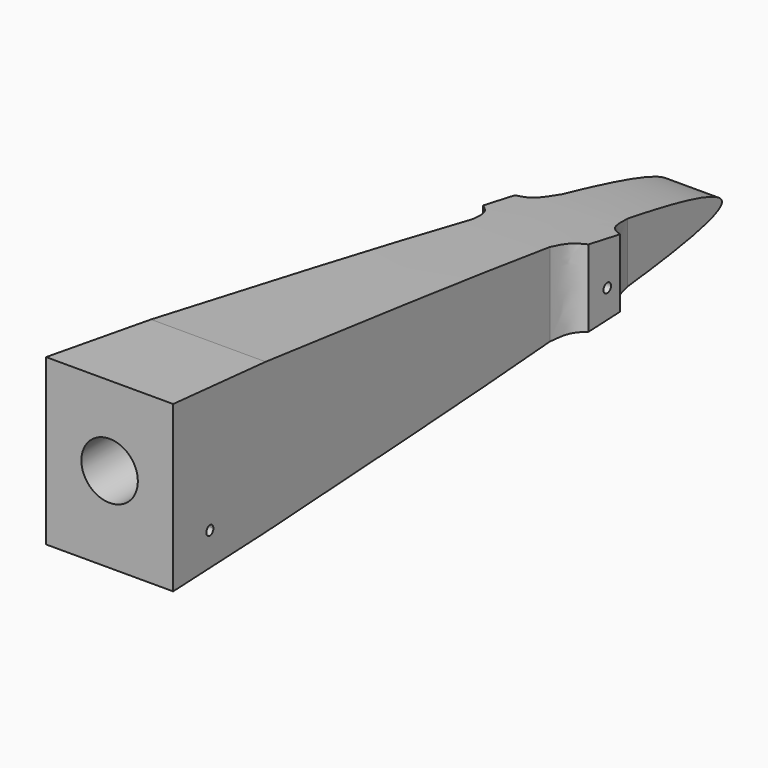
from build123d import *

# Parameters (mm, degrees)
F1_DEPTH = 21.43125
F2_R     = 9.525
F3_DEPTH = 50.8
F4_R     = 1.5875
F6_DEPTH = 42.8635
F7_DEPTH = 61.7368760046


with BuildPart() as f1:
    # F0 (on Right) → F1 (new body, symmetric)
    with BuildSketch(Plane.YZ):
        Polygon((-152.4, 69.85), (-152.4, 0), (152.4, 0), (152.4, 19.05), align=None)
    extrude(amount=F1_DEPTH, both=True)

    # F2 (on face) → F3 (cut)
    with BuildSketch(Plane.XZ.offset(152.4)):
        with Locations((0, 34.925)):
            Circle(F2_R)
    extrude(amount=-F3_DEPTH, mode=Mode.SUBTRACT)

    # F4 (on face) → F6 (intersect, through all)
    with BuildSketch(Plane.YZ.offset(21.43125)):
        with BuildLine():
            add(Edge.make_bspline(
                [(-110.784560442, 56.6772185266), (-7.8078894531, 41.1616744021), (197.1659329213, 10.2781708389), (-8.1241632402, 7.4820430193), (-110.2786958218, 6.0906601138)],
                knots=[0, 0, 0, 0, 0.5023893773, 1, 1, 1, 1], degree=3))
            Line((-110.784560442, 56.6772185266), (-152.4, 61.7358759046))
            Line((-152.4, 61.7358759046), (-152.4, 6.0906601138))
            Line((-152.4, 6.0906601138), (-135.8959368267, 6.0906601138))
            Line((-135.8959368267, 6.0906601138), (-110.2786958218, 6.0906601138))
        make_face()
        with BuildLine():
            ThreePointArc((-134.2849996434, 17.202987096), (-134.7582847356, 16.0721991454), (-135.8959368267, 15.6156601138))
            ThreePointArc((-135.8959368267, 15.6156601138), (-136.9867145512, 18.3337750467), (-134.2849996434, 17.202987096))
        make_face(mode=Mode.SUBTRACT)
        with Locations((35.1882949471, 18.7812717256)):
            Circle(F4_R, mode=Mode.SUBTRACT)
    extrude(amount=-F6_DEPTH, mode=Mode.INTERSECT)

    # F5 (on face) → F7 (intersect, through all)
    with BuildSketch(Plane(origin=(0, 0, 0), x_dir=(1, 0, 0), z_dir=(0, 0, -1))):
        with BuildLine():
            Line((21.43125, 152.4), (-21.43125, 152.4))
            Line((-21.43125, 152.4), (-12.8599264801, -17.1176383792))
            add(Edge.make_bspline(
                [(-17.78, -27.2766537964), (-16.5623446124, -26.2978531998), (-13.865051172, -24.1296597555), (-13.2159822939, -19.6015799215), (-12.8599264801, -17.1176383792)],
                knots=[0, 0, 0, 0, 0.4514360097, 1, 1, 1, 1], degree=3))
            Line((-17.78, -27.2766537964), (-17.78, -40.6726039946))
            add(Edge.make_bspline(
                [(-17.78, -40.6726039946), (-16.3984452114, -41.2366877132), (-13.0146417293, -42.6182821799), (-11.8044986652, -48.6084287427), (-11.0884383555, -52.1528908229)],
                knots=[0, 0, 0, 0, 0.4082845815, 1, 1, 1, 1], degree=3))
            Line((-11.0884383555, -52.1528908229), (-8.9427102357, -94.5896))
            Line((-8.9427102357, -94.5896), (8.9427102357, -94.5896))
            Line((8.9427102357, -94.5896), (11.0884383555, -52.1528908229))
            add(Edge.make_bspline(
                [(17.78, -40.6726039946), (16.3984452114, -41.2366877132), (13.0146417293, -42.6182821799), (11.8044986652, -48.6084287427), (11.0884383555, -52.1528908229)],
                knots=[0, 0, 0, 0, 0.4082845815, 1, 1, 1, 1], degree=3))
            Line((17.78, -40.6726039946), (17.78, -27.2766537964))
            add(Edge.make_bspline(
                [(17.78, -27.2766537964), (16.5623446124, -26.2978531998), (13.865051172, -24.1296597555), (13.2159822939, -19.6015799215), (12.8599264801, -17.1176383792)],
                knots=[0, 0, 0, 0, 0.4514360097, 1, 1, 1, 1], degree=3))
            Line((12.8599264801, -17.1176383792), (21.43125, 152.4))
        make_face()
    extrude(amount=-F7_DEPTH, mode=Mode.INTERSECT)


solid = f1.part
